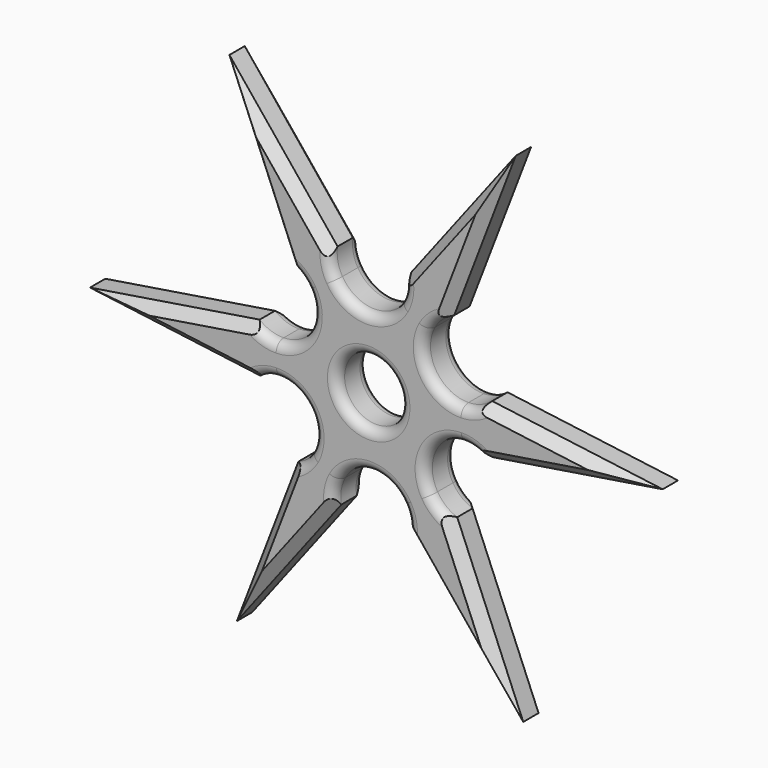
from build123d import *

# Parameters (mm, degrees)
F0_R     = 16.579543
F1_DEPTH = 20
F2_SIZE  = 5
F3_R     = 5


with BuildPart() as f1:
    # F0 (on Front) → F1 (new body)
    with BuildSketch(Plane.XZ):
        with BuildLine():
            Line((72.892826, 130.775252), (18.273617, 59.385619))
            ThreePointArc((18.273617, 59.385619), (30.157306, 54.324154), (40.737703, 46.914991))
            Line((40.737703, 46.914991), (72.892826, 130.775252))
        make_face()
        with BuildLine():
            ThreePointArc((-32.035458, 37.142698), (-31.70673, 17.601554), (-48.465492, 7.546296))
            Line((-48.465492, 7.546296), (-48.184249, -9.172171))
            ThreePointArc((-48.184249, -9.172171), (-31.096758, -18.658056), (-30.76803, -38.1992))
            Line((-30.76803, -38.1992), (-16.148791, -46.314869))
            ThreePointArc((-16.148791, -46.314869), (0.609972, -36.259611), (17.697462, -45.745496))
            Line((17.697462, -45.745496), (32.035458, -37.142698))
            ThreePointArc((32.035458, -37.142698), (31.70673, -17.601554), (48.465492, -7.546296))
            Line((48.465492, -7.546296), (48.184249, 9.172171))
            ThreePointArc((48.184249, 9.172171), (31.096758, 18.658056), (30.76803, 38.1992))
            Line((30.76803, 38.1992), (16.148791, 46.314869))
            ThreePointArc((16.148791, 46.314869), (-0.609972, 36.259611), (-17.697462, 45.745496))
            Line((-17.697462, 45.745496), (-32.035458, 37.142698))
        make_face()
        Circle(F0_R, mode=Mode.SUBTRACT)
        with BuildLine():
            ThreePointArc((60.566263, 13.867393), (54.785039, 10.439122), (48.184249, 9.172171))
            Line((48.184249, 9.172171), (48.465492, -7.546296))
            ThreePointArc((48.465492, -7.546296), (55.105162, -8.590511), (60.998425, -11.82239))
            ThreePointArc((60.998425, -11.82239), (62.12475, 1.045084), (60.566263, 13.867393))
        make_face()
        with BuildLine():
            ThreePointArc((18.273617, 59.385619), (18.351975, 52.664796), (16.148791, 46.314869))
            Line((16.148791, 46.314869), (30.76803, 38.1992))
            ThreePointArc((30.76803, 38.1992), (34.992182, 43.427214), (40.737703, 46.914991))
            ThreePointArc((40.737703, 46.914991), (30.157306, 54.324154), (18.273617, 59.385619))
        make_face()
        with BuildLine():
            Line((149.701104, 2.260587), (60.566263, 13.867393))
            ThreePointArc((60.566263, 13.867393), (62.12475, 1.045084), (60.998425, -11.82239))
            Line((60.998425, -11.82239), (149.701104, 2.260587))
        make_face()
        with BuildLine():
            ThreePointArc((42.292646, -45.518225), (31.967444, -53.27907), (20.260722, -58.737381))
            Line((20.260722, -58.737381), (76.808278, -128.514665))
            Line((76.808278, -128.514665), (42.292646, -45.518225))
        make_face()
        with BuildLine():
            Line((32.035458, -37.142698), (17.697462, -45.745496))
            ThreePointArc((17.697462, -45.745496), (20.11298, -52.017726), (20.260722, -58.737381))
            ThreePointArc((20.260722, -58.737381), (31.967444, -53.27907), (42.292646, -45.518225))
            ThreePointArc((42.292646, -45.518225), (36.433064, -42.225674), (32.035458, -37.142698))
        make_face()
        with BuildLine():
            Line((-16.148791, -46.314869), (-30.76803, -38.1992))
            ThreePointArc((-30.76803, -38.1992), (-34.992182, -43.427214), (-40.737703, -46.914991))
            ThreePointArc((-40.737703, -46.914991), (-30.157306, -54.324154), (-18.273617, -59.385619))
            ThreePointArc((-18.273617, -59.385619), (-18.351975, -52.664796), (-16.148791, -46.314869))
        make_face()
        with BuildLine():
            ThreePointArc((-18.273617, -59.385619), (-30.157306, -54.324154), (-40.737703, -46.914991))
            Line((-40.737703, -46.914991), (-72.892826, -130.775252))
            Line((-72.892826, -130.775252), (-18.273617, -59.385619))
        make_face()
        with BuildLine():
            ThreePointArc((-60.566263, -13.867393), (-62.12475, -1.045084), (-60.998425, 11.82239))
            Line((-60.998425, 11.82239), (-149.701104, -2.260587))
            Line((-149.701104, -2.260587), (-60.566263, -13.867393))
        make_face()
        with BuildLine():
            ThreePointArc((-48.465492, 7.546296), (-55.105162, 8.590511), (-60.998425, 11.82239))
            ThreePointArc((-60.998425, 11.82239), (-62.12475, -1.045084), (-60.566263, -13.867393))
            ThreePointArc((-60.566263, -13.867393), (-54.785039, -10.439122), (-48.184249, -9.172171))
            Line((-48.184249, -9.172171), (-48.465492, 7.546296))
        make_face()
        with BuildLine():
            ThreePointArc((-42.292646, 45.518225), (-36.433064, 42.225674), (-32.035458, 37.142698))
            Line((-32.035458, 37.142698), (-17.697462, 45.745496))
            ThreePointArc((-17.697462, 45.745496), (-20.11298, 52.017726), (-20.260722, 58.737381))
            ThreePointArc((-20.260722, 58.737381), (-31.967444, 53.27907), (-42.292646, 45.518225))
        make_face()
        with BuildLine():
            Line((-76.808278, 128.514665), (-42.292646, 45.518225))
            ThreePointArc((-42.292646, 45.518225), (-31.967444, 53.27907), (-20.260722, 58.737381))
            Line((-20.260722, 58.737381), (-76.808278, 128.514665))
        make_face()
    extrude(amount=-F1_DEPTH)

    # F2
    f2_edges = [f1.edges().sort_by_distance(p)[0] for p in [
        (56.815264, 0, 88.845121),
        (45.583221, 0, 95.080435),
        (56.815264, 20, 88.845121),
        (45.583221, 20, 95.080435),
        (-48.5345, 0, 93.626023),
        (-48.5345, 20, 93.626023),
        (-59.550462, 0, 87.016445),
        (-59.550462, 20, 87.016445),
        (-105.349764, 0, 4.780902),
        (-105.133683, 0, -8.06399),
        (-105.133683, 20, -8.06399),
        (-105.349764, 20, 4.780902),
        (105.349764, 20, -4.780902),
        (105.133683, 20, 8.06399),
        (105.133683, 0, 8.06399),
        (105.349764, 0, -4.780902),
        (59.550462, 0, -87.016445),
        (48.5345, 0, -93.626023),
        (-56.815264, 0, -88.845121),
        (-45.583221, 0, -95.080435),
        (-45.583221, 20, -95.080435),
        (-56.815264, 20, -88.845121),
        (48.5345, 20, -93.626023),
        (59.550462, 20, -87.016445),
    ]]
    chamfer(f2_edges, length=F2_SIZE)

    # F3
    f3_edges = [f1.edges().sort_by_distance(p)[0] for p in [
        (-31.680434, 0, 17.649078),
        (-31.680434, 20, 17.649078),
        (-0.555667, 0, 36.2606),
        (-31.124767, 0, -18.611522),
        (0.555667, 0, -36.2606),
        (31.680434, 0, -17.649078),
        (31.124767, 0, 18.611522),
        (-16.579543, 0, 0),
        (0.555667, 20, -36.2606),
        (-31.124767, 20, -18.611522),
        (31.680434, 20, -17.649078),
        (31.124767, 20, 18.611522),
        (-0.555667, 20, 36.2606),
        (-16.579543, 20, 0),
    ]]
    fillet(f3_edges, radius=F3_R)


solid = f1.part
